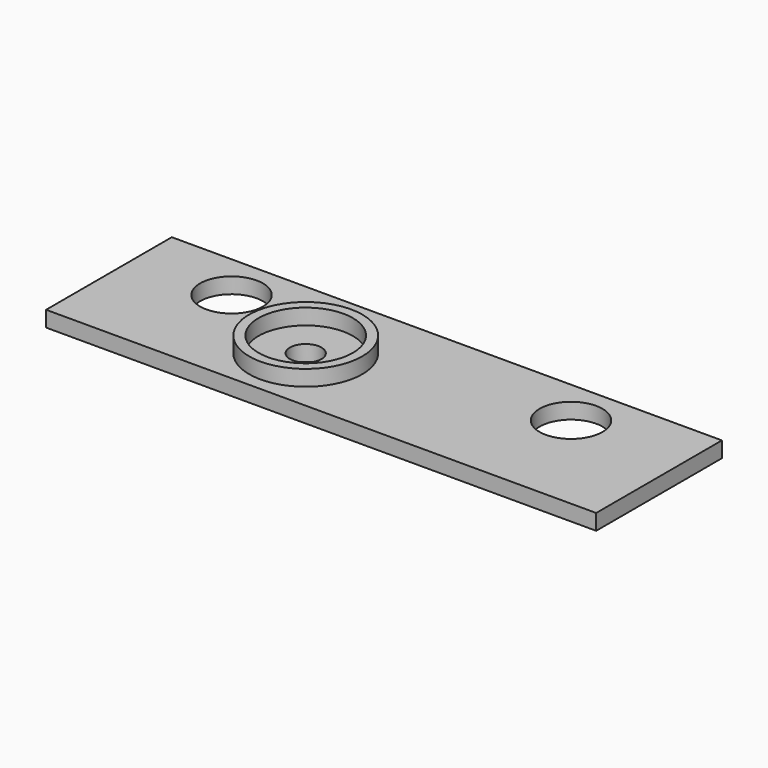
from build123d import *

# Parameters (mm, degrees)
BOX_W             = 175
BOX_H             = 5
BOX_DEPTH         = 50
SKETCH_R          = 10
POCKET_DEPTH      = 5.001
SKETCH003_R       = 5
POCKET002_DEPTH   = 5.001
SKETCH001_R       = 18
PAD_DEPTH         = 5
SKETCH002_R       = 15
POCKET001_DEPTH   = 5.001
FUSION_ROLL_ANGLE = -90


with BuildPart() as pocket002:
    # Box → Box (new body)
    with BuildSketch(Plane.XY):
        with Locations((87.5, 2.5)):
            Rectangle(BOX_W, BOX_H)
    extrude(amount=BOX_DEPTH)

    # Sketch → Pocket (cut, through all)
    with BuildSketch(Plane.XZ):
        with Locations((31, 35)):
            Circle(SKETCH_R)
        with Locations((139, 35)):
            Circle(SKETCH_R)
    extrude(amount=-POCKET_DEPTH, mode=Mode.SUBTRACT)

    # Sketch003 → Pocket002 (cut, through all)
    with BuildSketch(Plane.XZ):
        with Locations((65, 22)):
            Circle(SKETCH003_R)
    extrude(amount=-POCKET002_DEPTH, mode=Mode.SUBTRACT)


with BuildPart() as fusion:
    # Sketch001 → Pad (new body)
    with BuildSketch(Plane.XZ):
        with Locations((65, 22)):
            Circle(SKETCH001_R)
    extrude(amount=PAD_DEPTH)

    # Sketch002 → Pocket001 (cut, through all)
    with BuildSketch(Plane.XZ.offset(5)):
        with Locations((65, 22)):
            Circle(SKETCH002_R)
    extrude(amount=-POCKET001_DEPTH, mode=Mode.SUBTRACT)

    # Fusion: union Pocket002
    add(pocket002.part)


with BuildPart() as fusion_1:
    # Fusion roll: moved
    add(fusion.part.rotate(Axis((0, 0, 0), (1, 0, 0)), FUSION_ROLL_ANGLE))


with BuildPart() as fusion_2:
    # Fusion placement: moved
    add(fusion_1.part)


solid = fusion_2.part
